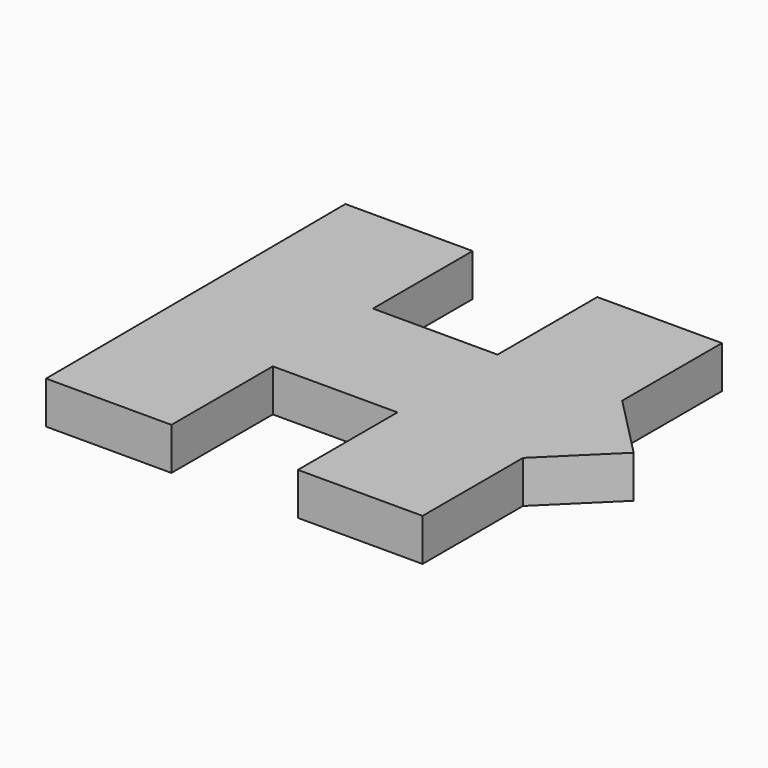
from build123d import *

# Parameters (mm, degrees)
F1_DEPTH = 10
F2_T     = -1


with BuildPart() as f1:
    # F0 (on Top) → F1 (new body)
    with BuildSketch(Plane.XY):
        Polygon((-14.713825658, 44.3513132632), (-44.7570756078, 44.3513132632), (-44.3209633231, -44.5757396519), (-14.713825658, -44.5757396519), (-14.713825658, -14.638537541), (14.726145193, -14.638537541), (14.726145193, -44.034704566), (44.1661179066, -44.034704566), (44.1661179066, -14.3647896479), (58.8016323745, 0), (44.1661179066, 14.9113414809), (44.1661179066, 44.3513132632), (14.726145193, 44.3513132632), (14.726145193, 14.9113414809), (-14.713825658, 14.9113414809), align=None)
    extrude(amount=F1_DEPTH)

    # F2
    f2_openings = [f1.faces().sort_by_distance(p)[0] for p in [
        (1.349814, 0.088253, 0),
    ]]
    offset(amount=F2_T, openings=f2_openings, kind=Kind.INTERSECTION)


solid = f1.part
